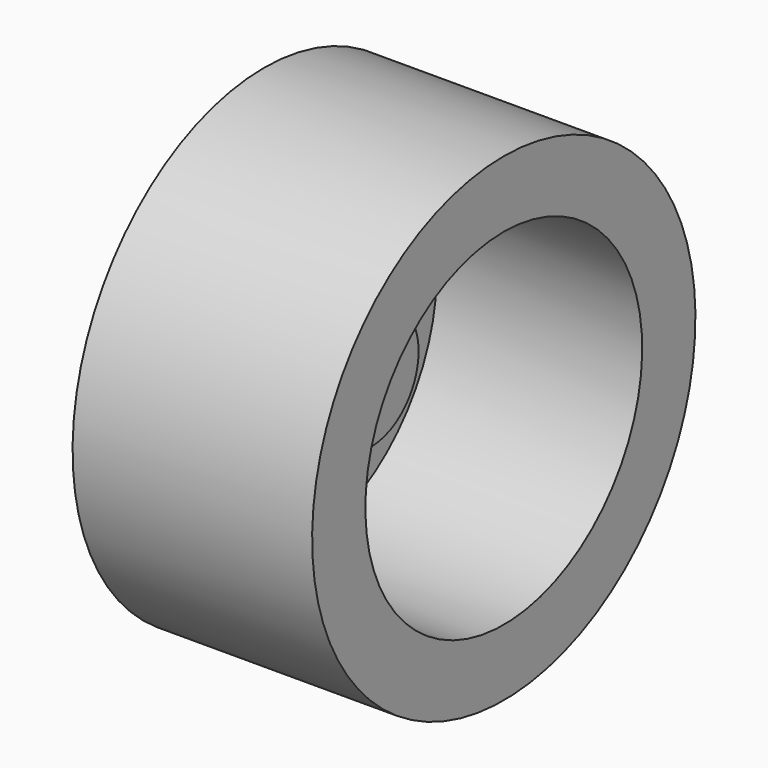
from build123d import *

# Parameters (mm, degrees)
F2_R     = 2
F3_DEPTH = 25


with BuildPart() as f1:
    # F0 (on Front) → F1 (revolve)
    with BuildSketch(Plane.XZ):
        Polygon((0, 18), (0, 0), (8, 0), (8, 4.5), (2.56604, 4.5), (2.56604, 13), (18, 13), (18, 18), align=None)
    revolve(axis=Axis((1.852863, 0, 0), (1, 0, 0)))

    # F2 (on face) → F3 (cut)
    with BuildSketch(Plane.YZ.offset(8)):
        Circle(F2_R)
    extrude(amount=-F3_DEPTH, mode=Mode.SUBTRACT)


solid = f1.part
